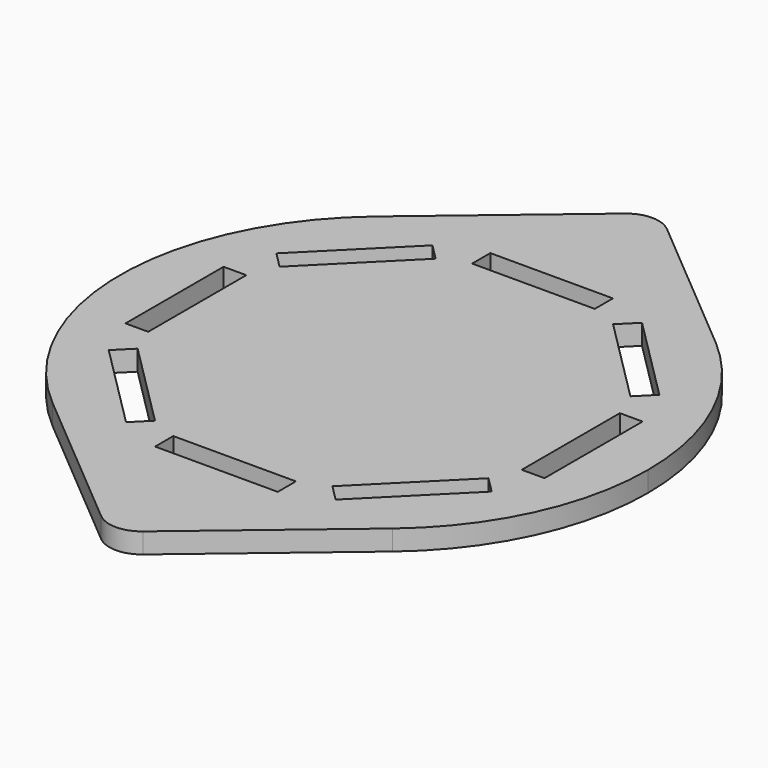
from build123d import *

# Parameters (mm, degrees)
F1_DEPTH = 5


with BuildPart() as f1:
    # F0 (on Top) → F1 (new body)
    with BuildSketch(Plane.XY):
        with BuildLine():
            ThreePointArc((41.884666, -49.705882), (58.938541, -27.40891), (65, 0))
            ThreePointArc((65, 0), (58.938541, 27.40891), (41.884666, 49.705882))
            ThreePointArc((41.884666, 49.705882), (0, 65), (-41.884666, 49.705882))
            ThreePointArc((-41.884666, 49.705882), (-65, 0), (-41.884666, -49.705882))
            ThreePointArc((-41.884666, -49.705882), (0, -65), (41.884666, -49.705882))
        make_face()
        Polygon((-47.164022, -25.809398), (-43.204224, -21.8496), (-32.526912, -32.526912), (-21.8496, -43.204224), (-25.809398, -47.164022), (-36.48671, -36.48671), align=None, mode=Mode.SUBTRACT)
        Polygon((-15.1, -51.6), (-15.1, -46), (0, -46), (15.1, -46), (15.1, -51.6), (0, -51.6), align=None, mode=Mode.SUBTRACT)
        Polygon((25.809398, -47.164022), (21.8496, -43.204224), (32.526912, -32.526912), (43.204224, -21.8496), (47.164022, -25.809398), (36.48671, -36.48671), align=None, mode=Mode.SUBTRACT)
        Polygon((-46, 15.1), (-46, 0), (-46, -15.1), (-51.6, -15.1), (-51.6, 0), (-51.6, 15.1), align=None, mode=Mode.SUBTRACT)
        Polygon((-25.809398, 47.164022), (-21.8496, 43.204224), (-32.526912, 32.526912), (-43.204224, 21.8496), (-47.164022, 25.809398), (-36.48671, 36.48671), align=None, mode=Mode.SUBTRACT)
        Polygon((51.6, -15.1), (46, -15.1), (46, 0), (46, 15.1), (51.6, 15.1), (51.6, 0), align=None, mode=Mode.SUBTRACT)
        Polygon((47.164022, 25.809398), (43.204224, 21.8496), (32.526912, 32.526912), (21.8496, 43.204224), (25.809398, 47.164022), (36.48671, 36.48671), align=None, mode=Mode.SUBTRACT)
        Polygon((15.1, 51.6), (15.1, 46), (0, 46), (-15.1, 46), (-15.1, 51.6), (0, 51.6), align=None, mode=Mode.SUBTRACT)
        with BuildLine():
            ThreePointArc((-41.884666, 49.705882), (0, 65), (41.884666, 49.705882))
            Line((41.884666, 49.705882), (5.155036, 80.656109))
            ThreePointArc((5.155036, 80.656109), (0, 82.538462), (-5.155036, 80.656109))
            Line((-5.155036, 80.656109), (-41.884666, 49.705882))
        make_face()
        with BuildLine():
            Line((5.155036, -80.656109), (41.884666, -49.705882))
            ThreePointArc((41.884666, -49.705882), (0, -65), (-41.884666, -49.705882))
            Line((-41.884666, -49.705882), (-5.155036, -80.656109))
            ThreePointArc((-5.155036, -80.656109), (0, -82.538462), (5.155036, -80.656109))
        make_face()
    extrude(amount=F1_DEPTH)


solid = f1.part
